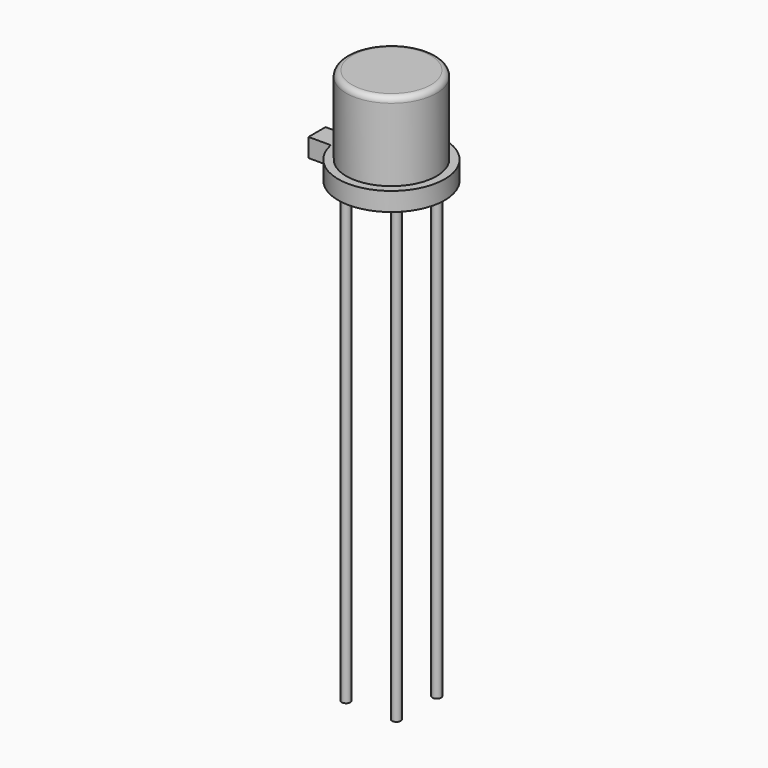
from build123d import *

# Parameters (mm, degrees)
F3_DEPTH = 1.02
F2_R     = 0.24
F4_DEPTH = 25


with BuildPart() as f1:
    # F0 (on Front) → F1 (revolve)
    with BuildSketch(Plane.XZ):
        with BuildLine():
            Line((0, 0), (0, 5.33))
            Line((0, 5.33), (-2.165, 5.33))
            ThreePointArc((-2.165, 5.33), (-2.384203, 5.239203), (-2.475, 5.02))
            Line((-2.475, 5.02), (-2.475, 1.02))
            Line((-2.475, 1.02), (-2.92, 1.02))
            Line((-2.92, 1.02), (-2.92, 0))
            Line((-2.92, 0), (0, 0))
        make_face()
    revolve(axis=Axis((0, 0, 2.665), (0, 0, 1)))

    # F2 (on face) → F3 (join)
    with BuildSketch(Plane(origin=(0, 0, 0), x_dir=(1, 0, 0), z_dir=(0, 0, -1))):
        with BuildLine():
            ThreePointArc((-2.8608, -0.585), (-2.92, 0), (-2.8608, 0.585))
            Line((-2.8608, 0.585), (-4.0808, 0.585))
            Line((-4.0808, 0.585), (-4.0808, -0.585))
            Line((-4.0808, -0.585), (-2.8608, -0.585))
        make_face()
    extrude(amount=-F3_DEPTH)

    # F2 (on face) → F4 (join)
    with BuildSketch(Plane(origin=(0, 0, 0), x_dir=(1, 0, 0), z_dir=(0, 0, -1))):
        with Locations((-1.38125, 1.38125)):
            Circle(F2_R)
        with Locations((1.38125, 1.38125)):
            Circle(F2_R)
        with Locations((1.38125, -1.38125)):
            Circle(F2_R)
    extrude(amount=F4_DEPTH)


solid = f1.part
